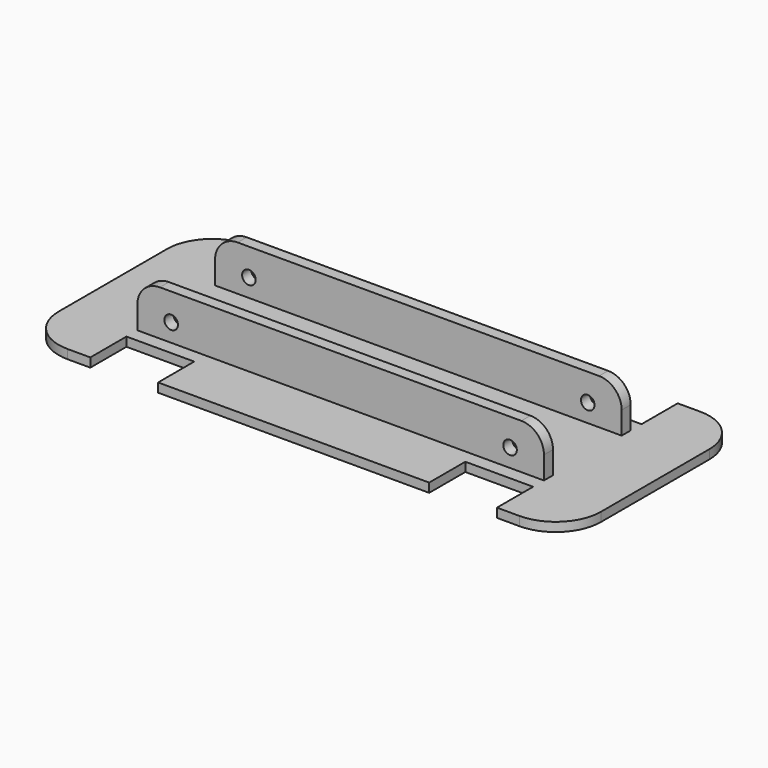
from build123d import *

# Parameters (mm, degrees)
F0_W      = 120
F0_H      = 50
F1_DEPTH  = 2
F2_W      = 15
F2_H      = 10
F3_DEPTH  = 25
F4_W      = 15
F4_H      = 10
F5_DEPTH  = 12.5
F6_W      = 15
F6_H      = 10
F7_DEPTH  = 25
F8_W      = 15
F8_H      = 10
F9_DEPTH  = 25
F10_W     = 90
F10_H     = 2.5
F11_DEPTH = 10
F12_W     = 90
F12_H     = 2.5
F13_DEPTH = 10
F14_R     = 5
F15_R     = 5
F16_R     = 10
F17_R     = 10
F18_R     = 1.5
F19_DEPTH = 37.001
F20_DEPTH = 25


with BuildPart() as f1:
    # F0 (on Top) → F1 (new body)
    with BuildSketch(Plane.XY):
        Rectangle(F0_W, F0_H)
    extrude(amount=F1_DEPTH)

    # F2 (on face) → F3 (cut)
    with BuildSketch(Plane.XY.offset(2)):
        with Locations((37.5, -20)):
            Rectangle(F2_W, F2_H)
    extrude(amount=-F3_DEPTH, mode=Mode.SUBTRACT)

    # F4 (on face) → F5 (cut, symmetric)
    with BuildSketch(Plane.XY.offset(2)):
        with Locations((37.5, 20)):
            Rectangle(F4_W, F4_H)
    extrude(amount=F5_DEPTH, both=True, mode=Mode.SUBTRACT)

    # F6 (on face) → F7 (cut)
    with BuildSketch(Plane.XY.offset(2)):
        with Locations((-37.5, 20)):
            Rectangle(F6_W, F6_H)
    extrude(amount=-F7_DEPTH, mode=Mode.SUBTRACT)

    # F8 (on face) → F9 (cut)
    with BuildSketch(Plane.XY.offset(2)):
        with Locations((-37.5, -20)):
            Rectangle(F8_W, F8_H)
    extrude(amount=-F9_DEPTH, mode=Mode.SUBTRACT)

    # F10 (on face) → F11 (join)
    with BuildSketch(Plane.XY.offset(2)):
        with Locations((0, -10.75)):
            Rectangle(F10_W, F10_H)
    extrude(amount=F11_DEPTH)

    # F12 (on face) → F13 (join)
    with BuildSketch(Plane.XY.offset(2)):
        with Locations((0, 10.75)):
            Rectangle(F12_W, F12_H)
    extrude(amount=F13_DEPTH)

    # F14
    f14_edges = [f1.edges().sort_by_distance(p)[0] for p in [
        (-45, -10.75, 12),
    ]]
    fillet(f14_edges, radius=F14_R)

    # F15
    f15_edges = [f1.edges().sort_by_distance(p)[0] for p in [
        (45, 10.75, 12),
        (-45, 10.75, 12),
        (45, -10.75, 12),
    ]]
    fillet(f15_edges, radius=F15_R)

    # F16
    f16_edges = [f1.edges().sort_by_distance(p)[0] for p in [
        (60, -25, 1),
        (60, 25, 1),
    ]]
    fillet(f16_edges, radius=F16_R)

    # F17
    f17_edges = [f1.edges().sort_by_distance(p)[0] for p in [
        (-60, -25, 1),
        (-60, 25, 1),
    ]]
    fillet(f17_edges, radius=F17_R)

    # F18 (on face) → F19 (cut, through all)
    with BuildSketch(Plane.XZ.offset(12)):
        with Locations((-37.5, 6)):
            Circle(F18_R)
    extrude(amount=-F19_DEPTH, mode=Mode.SUBTRACT)

    # F18 (on face) → F20 (cut)
    with BuildSketch(Plane.XZ.offset(12)):
        with Locations((-37.5, 6)):
            Circle(F18_R)
        with Locations((37.5, 6)):
            Circle(F18_R)
    extrude(amount=-F20_DEPTH, mode=Mode.SUBTRACT)


solid = f1.part
